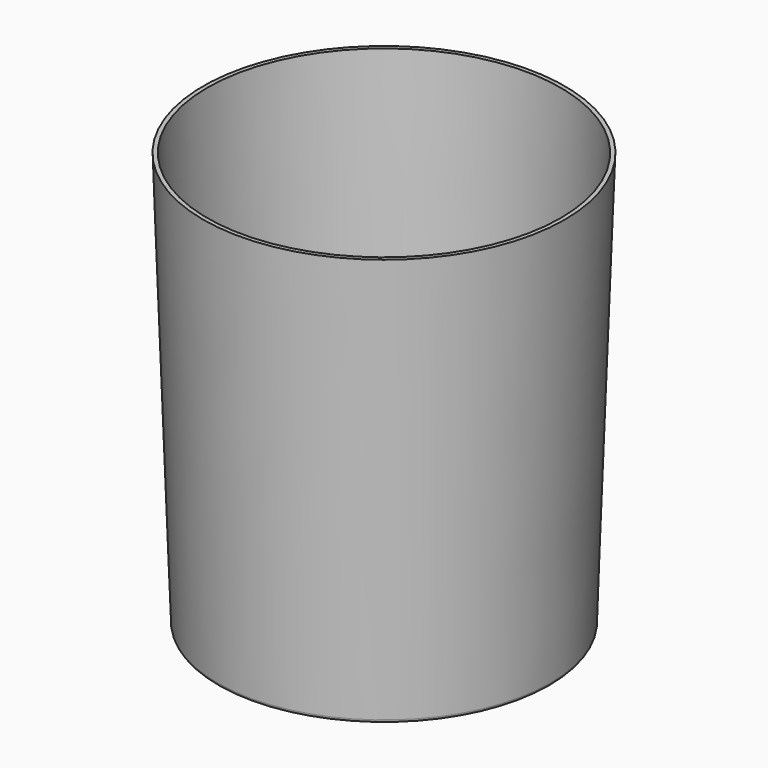
from build123d import *

# Parameters (mm, degrees)
F0_R     = 100
F1_DEPTH = 250
F1_TAPER = -2
F2_T     = -2.5
F3_R     = 2


with BuildPart() as f1:
    # F0 (on Top) → F1 (new body)
    with BuildSketch(Plane.XY):
        Circle(F0_R)
    extrude(amount=F1_DEPTH, taper=F1_TAPER)

    # F2
    f2_openings = [f1.faces().sort_by_distance(p)[0] for p in [
        (0, 0, 250),
    ]]
    offset(amount=F2_T, openings=f2_openings, kind=Kind.INTERSECTION)

    # F3
    f3_edges = [f1.edges().sort_by_distance(p)[0] for p in [
        (-100, 0, 0),
        (-97.585778, 0, 2.5),
    ]]
    fillet(f3_edges, radius=F3_R)


solid = f1.part
